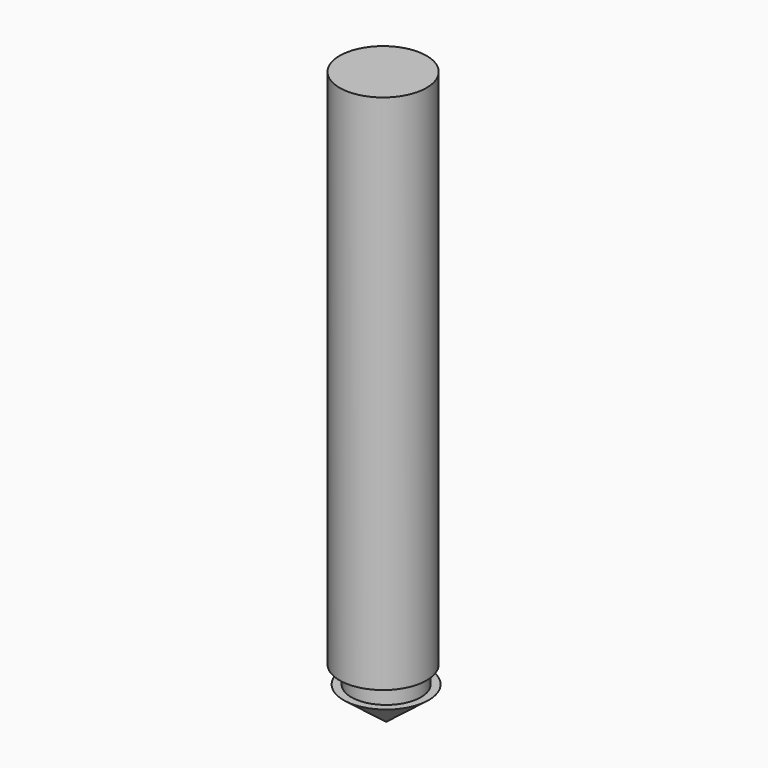
from build123d import *

# Parameters (mm, degrees)
F2_R     = 2
F3_DEPTH = 1.1
F4_R     = 2.5
F5_DEPTH = 30


with BuildPart() as f1:
    # F0 (on Front) → F1 (revolve)
    with BuildSketch(Plane.XZ):
        Polygon((0, 1.9), (0, 0), (2.45, 1.9), align=None)
    revolve(axis=Axis((0, 0, 0.95), (0, 0, 1)))

    # F2 (on face) → F3 (join)
    with BuildSketch(Plane.XY.offset(1.9)):
        Circle(F2_R)
    extrude(amount=F3_DEPTH)

    # F4 (on face) → F5 (join)
    with BuildSketch(Plane.XY.offset(3)):
        with Locations((0, -0.214779)):
            Circle(F4_R)
    extrude(amount=F5_DEPTH)


solid = f1.part
